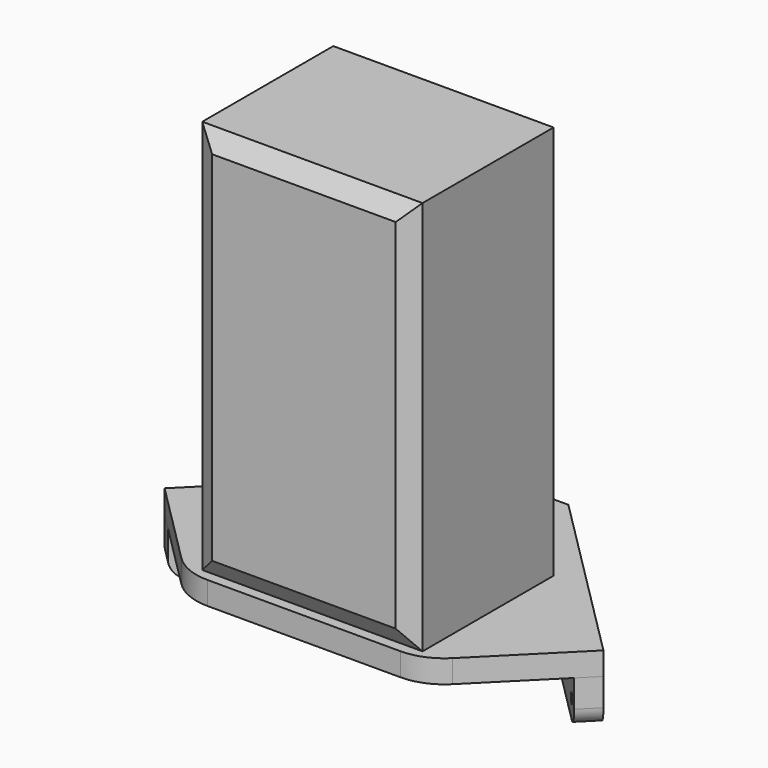
from build123d import *

# Parameters (mm, degrees)
F1_DEPTH       = 25
F3_DEPTH       = 50
F5_D           = 5.5
F5_CSINK_D     = 11.2
F5_CSINK_ANGLE = 90
F6_R           = 20
F8_W           = 240
F8_H           = 190
F9_DEPTH       = 430
F10_SIZE2      = 11.5470053838
F10_SIZE       = 20
F11_R          = 60


with BuildPart() as f1:
    # F0 (on Top) → F1 (new body)
    with BuildSketch(Plane.XY):
        Polygon((48.1623381593, 0), (-48.1623381593, 0), (-239.0811690796, -190.9188309204), (-130, -300), (130, -300), (239.0811690796, -190.9188309204), align=None)
    extrude(amount=F1_DEPTH)

    # F11
    f11_edges = [f1.edges().sort_by_distance(p)[0] for p in [
        (130, -300, 12.5),
        (-130, -300, 12.5),
    ]]
    fillet(f11_edges, radius=F11_R)


with BuildPart() as f3:
    # F2 (on face) → F3 (new body)
    with BuildSketch(Plane(origin=(0, 0, 0), x_dir=(1, 0, 0), z_dir=(0, 0, -1))):
        Polygon((-221.40349955, 208.59650045), (-239.0811690796, 190.9188309204), (-48.1623381593, 0), (-30.4846686296, 17.6776695297), align=None)
    extrude(amount=F3_DEPTH)

    # F5 (through all)
    with Locations(Plane(origin=(-6.40349955, 6.40349955, 0), x_dir=(0.7071067812, 0.7071067812, 0), z_dir=(0.7071067812, -0.7071067812, 0))):
        with Locations((-284.0559159102, -30), (-54.0559159102, -30)):
            CounterSinkHole(F5_D / 2, F5_CSINK_D / 2, counter_sink_angle=F5_CSINK_ANGLE)

    # F6
    f6_edges = [f3.edges().sort_by_distance(p)[0] for p in [
        (-230.242334, -199.757666, -50),
        (-39.323503, -8.838835, -50),
    ]]
    fillet(f6_edges, radius=F6_R)


with BuildPart() as f7_1:
    # F7: instance of F3
    add(f3.part.mirror(Plane.YZ))


with BuildPart() as f9:
    # F8 (on face) → F9 (new body)
    with BuildSketch(Plane.XY.offset(25)):
        with Locations((0, -205)):
            Rectangle(F8_W, F8_H)
    extrude(amount=F9_DEPTH)

    # F10
    f10_edges = [f9.edges().sort_by_distance(p)[0] for p in [
        (-120, -300, 240),
        (120, -300, 240),
        (0, -300, 25),
        (0, -300, 455),
    ]]
    f10_side = f9.faces().sort_by_distance((0, -300, 240))[0]
    chamfer(f10_edges, length=F10_SIZE, length2=F10_SIZE2, reference=f10_side)


solid = Compound([f1.part, f3.part, f7_1.part, f9.part])
